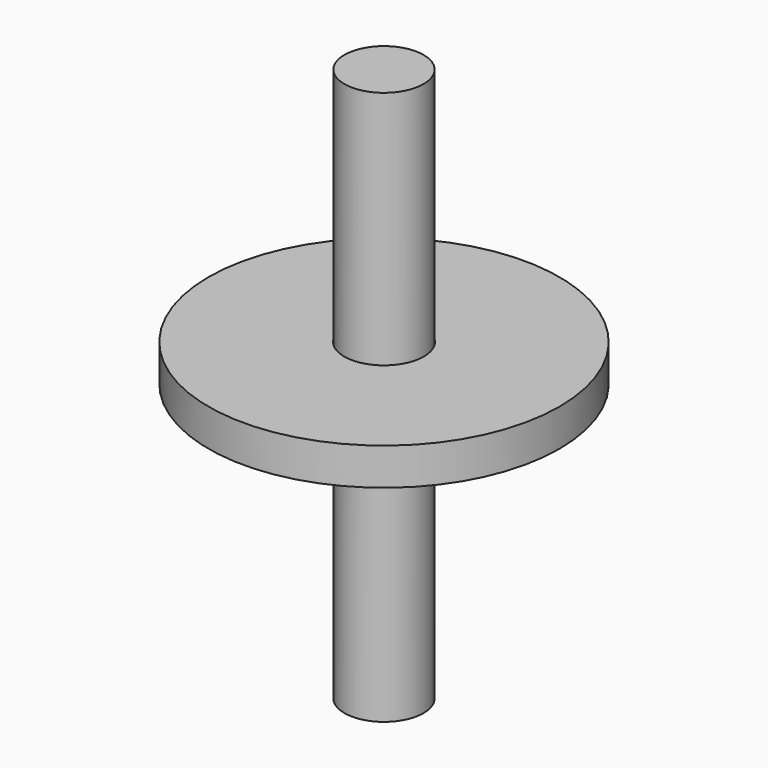
from build123d import *

# Parameters (mm, degrees)
F0_R     = 80.4867101045
F1_DEPTH = 17.018
F2_R     = 18.1396053128
F3_DEPTH = 127
F4_R     = 18.2649107144
F4_R_2   = 18.1396053128
F5_DEPTH = 50.8


with BuildPart() as f1:
    # F0 (on Top) → F1 (new body)
    with BuildSketch(Plane.XY):
        Circle(F0_R)
    extrude(amount=F1_DEPTH)

    # F2 (on Top) → F3 (join, symmetric)
    with BuildSketch(Plane.XY):
        Circle(F2_R)
    extrude(amount=F3_DEPTH, both=True)

    # F4 (on face) → F5 (cut, symmetric)
    with BuildSketch(Plane.XY.offset(17.018)):
        Circle(F4_R)
        Circle(F4_R_2, mode=Mode.SUBTRACT)
    extrude(amount=F5_DEPTH, both=True, mode=Mode.SUBTRACT)


solid = f1.part
